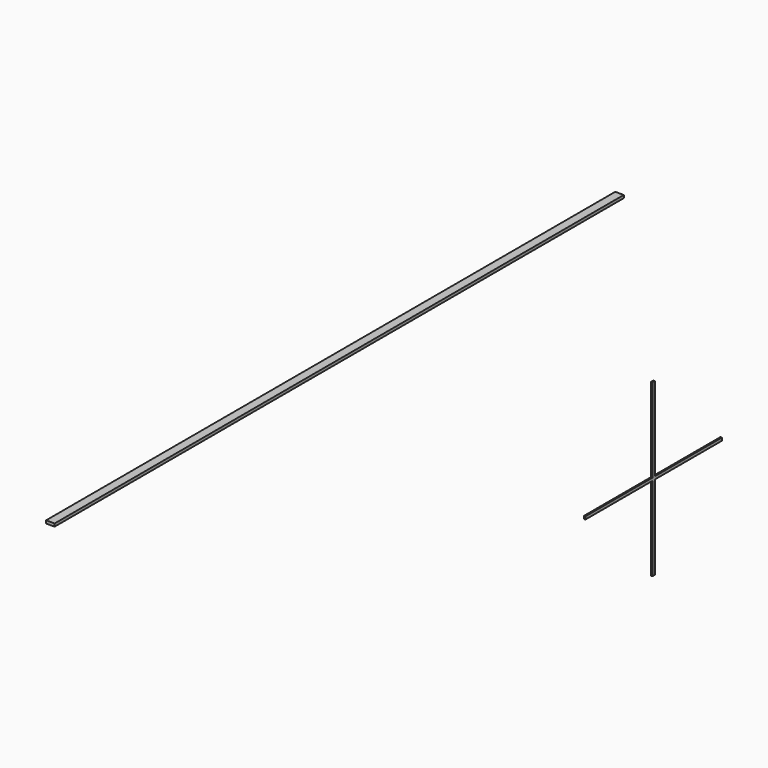
from build123d import *

# Parameters (mm, degrees)
F0_W     = 3.81
F0_H     = 317.5
F1_DEPTH = 1.27
F2_W     = 37.465
F2_H     = 1.27
F2_W_2   = 1.27
F2_H_2   = 37.465
F3_DEPTH = 0.635


with BuildPart() as f1:
    # F0 (on Top) → F1 (new body)
    with BuildSketch(Plane.XY):
        with Locations((-141.5962326458, 0)):
            Rectangle(F0_W, F0_H)
    extrude(amount=F1_DEPTH)


with BuildPart() as f3:
    # F2 (on Right) → F3 (new body)
    with BuildSketch(Plane.YZ):
        with Locations((19.3675, 0)):
            Rectangle(F2_W, F2_H)
        with Locations((-19.3675, 0)):
            Rectangle(F2_W, F2_H)
        with Locations((0, 19.3675)):
            Rectangle(F2_W_2, F2_H_2)
        with Locations((0, -19.3675)):
            Rectangle(F2_W_2, F2_H_2)
        Rectangle(F2_W_2, F2_H)
    extrude(amount=F3_DEPTH)


solid = Compound([f1.part, f3.part])
